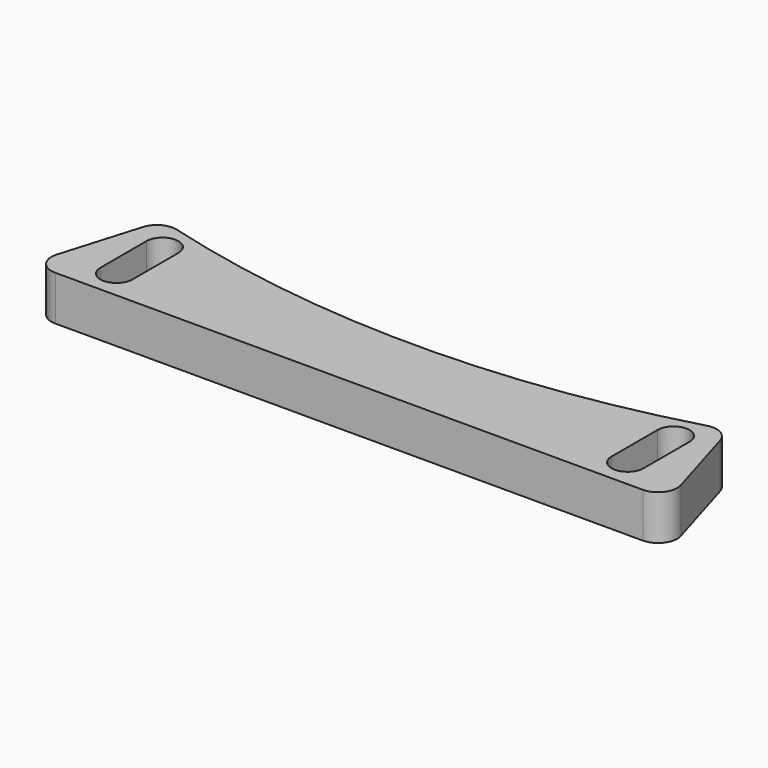
from build123d import *

# Parameters (mm, degrees)
F1_DEPTH = 7


with BuildPart() as f1:
    # F0 (on Top) → F1 (new body)
    with BuildSketch(Plane.XY):
        with BuildLine():
            ThreePointArc((41.432343, -149.359837), (-0.077931, -154.99998), (-41.582512, -149.318099))
            ThreePointArc((-41.582512, -149.318099), (-43.836926, -149.581592), (-45.26156, -151.348575))
            Line((-45.26156, -151.348575), (-48.937501, -163.640429))
            ThreePointArc((-48.937501, -163.640429), (-48.469378, -166.291815), (-46.063276, -167.49998))
            Line((-46.063276, -167.49998), (45.884062, -167.49998))
            ThreePointArc((45.884062, -167.49998), (48.289263, -166.293025), (48.75915, -163.643319))
            Line((48.75915, -163.643319), (45.109347, -151.394012))
            ThreePointArc((45.109347, -151.394012), (43.686491, -149.625597), (41.432343, -149.359837))
        make_face()
        with BuildLine():
            ThreePointArc((-37.591719, -162.99998), (-40.091719, -165.49998), (-42.591719, -162.99998))
            Line((-42.591719, -162.99998), (-42.591719, -153.99998))
            ThreePointArc((-42.591719, -153.99998), (-40.091719, -151.49998), (-37.591719, -153.99998))
            Line((-37.591719, -153.99998), (-37.591719, -162.99998))
        make_face(mode=Mode.SUBTRACT)
        with BuildLine():
            ThreePointArc((42.408281, -162.999995), (39.908266, -165.49998), (37.408281, -162.999965))
            Line((37.408281, -162.999965), (37.408335, -153.999965))
            ThreePointArc((37.408335, -153.999965), (39.90835, -151.49998), (42.408335, -153.999995))
            Line((42.408335, -153.999995), (42.408281, -162.999995))
        make_face(mode=Mode.SUBTRACT)
    extrude(amount=F1_DEPTH)


solid = f1.part
